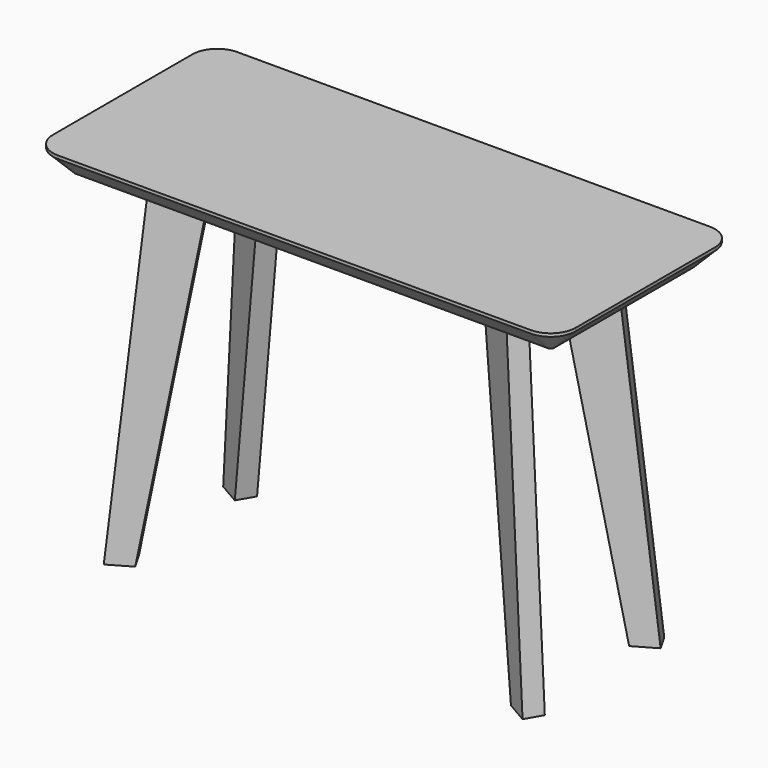
from build123d import *

# Parameters (mm, degrees)
F0_W      = 1066.8
F0_H      = 457.2
F1_DEPTH  = 50.8
F2_R      = 50.8
F3_SIZE   = 44.45
F4_W      = 939.8
F4_H      = 330.2
F5_DEPTH  = 25.4
F10_DEPTH = 19.05


with BuildPart() as f1:
    # F0 (on Top) → F1 (new body)
    with BuildSketch(Plane.XY):
        Rectangle(F0_W, F0_H)
    extrude(amount=-F1_DEPTH)

    # F2
    f2_edges = [f1.edges().sort_by_distance(p)[0] for p in [
        (-533.4, -228.6, -25.4),
        (-533.4, 228.6, -25.4),
        (533.4, -228.6, -25.4),
        (533.4, 228.6, -25.4),
    ]]
    fillet(f2_edges, radius=F2_R)

    # F3
    f3_edges = [f1.edges().sort_by_distance(p)[0] for p in [
        (533.4, 0, -50.8),
    ]]
    chamfer(f3_edges, length=F3_SIZE)

    # F4 (on face) → F5 (cut)
    with BuildSketch(Plane(origin=(0, 0, -50.8), x_dir=(1, 0, 0), z_dir=(0, 0, -1))):
        Rectangle(F4_W, F4_H)
    extrude(amount=-F5_DEPTH, mode=Mode.SUBTRACT)

    # F9 (on face) → F10 (join, symmetric)
    with BuildSketch(Plane(origin=(-38.1, 65.991136, 0), x_dir=(0.866025, 0.5, 0), z_dir=(0.5, -0.866025, 0))):
        Polygon((-409.78602, -736.6), (-284.382272, -25.4), (-385.982272, -25.4), (-460.58602, -736.6), align=None)
    extrude(amount=F10_DEPTH, both=True)

    # F11: F1 across plane


with BuildPart() as f1_1:
    add(f1.part)
    add(f1.part.mirror(Plane.YZ))

    # F12: F1 across plane


with BuildPart() as f1_2:
    add(f1_1.part)
    add(f1_1.part.mirror(Plane.XZ))


solid = f1_2.part
